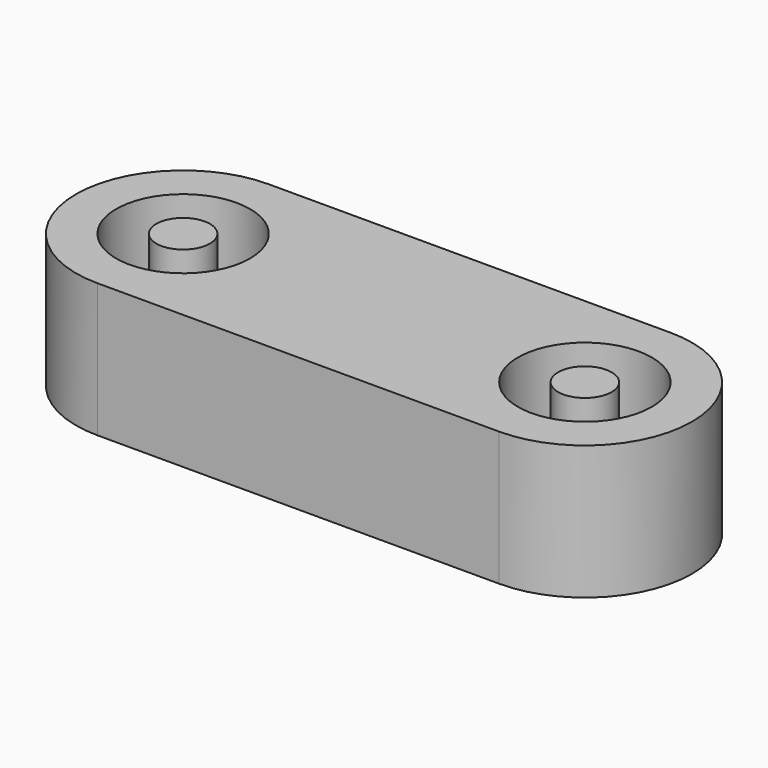
from build123d import *

# Parameters (mm, degrees)
F0_R     = 2.5
F1_DEPTH = 2.5
F2_R     = 1
F3_DEPTH = 5


with BuildPart() as f1:
    # F0 (on Top) → F1 (new body, symmetric)
    with BuildSketch(Plane.XY):
        with BuildLine():
            Line((15, 4), (0, 4))
            ThreePointArc((0, 4), (-4, 0), (0, -4))
            Line((0, -4), (15, -4))
            ThreePointArc((15, -4), (19, 0), (15, 4))
        make_face()
        Circle(F0_R, mode=Mode.SUBTRACT)
        with Locations((15, 0)):
            Circle(F0_R, mode=Mode.SUBTRACT)
    extrude(amount=F1_DEPTH, both=True)


with BuildPart() as f3:
    # F2 (on face) → F3 (new body)
    with BuildSketch(Plane.XY.offset(2.5)):
        Circle(F2_R)
        with Locations((15, 0)):
            Circle(F2_R)
    extrude(amount=-F3_DEPTH)


solid = Compound([f1.part, f3.part])
